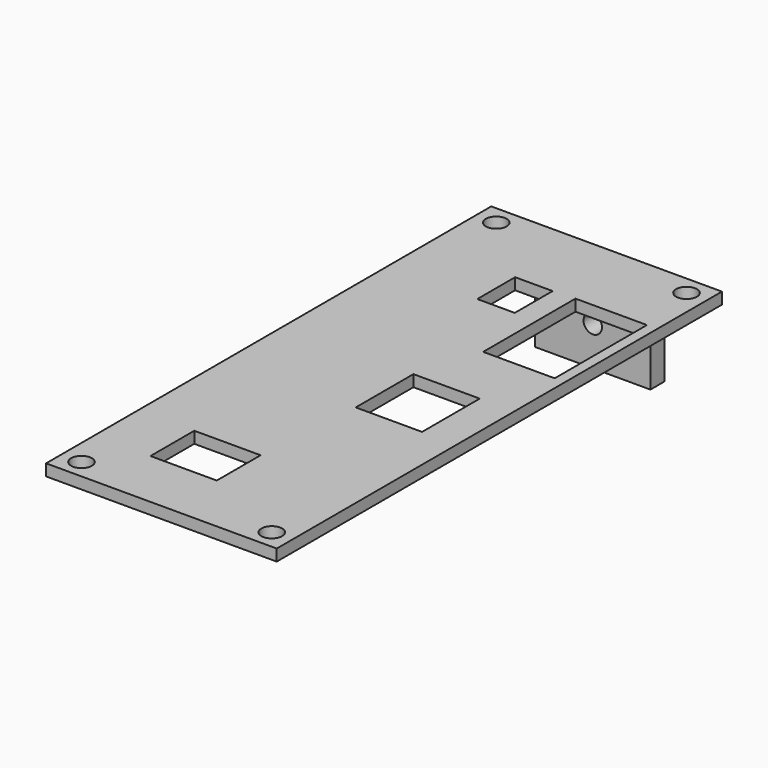
from build123d import *

# Parameters (mm, degrees)
SKETCH_W        = 40
SKETCH_H        = 96.5
PAD_DEPTH       = 2
SKETCH001_R     = 1.8
SKETCH001_W     = 11.5
SKETCH001_H     = 12.5
SKETCH001_W_2   = 6.5
SKETCH001_H_2   = 8.2
SKETCH001_H_3   = 9.5
SKETCH001_W_3   = 12.4
SKETCH001_H_4   = 20
POCKET_DEPTH    = 5
SKETCH002_W     = 20
SKETCH002_H     = 3
PAD001_DEPTH    = 15
SKETCH003_R     = 1.6
POCKET001_DEPTH = 5


with BuildPart() as part:
    # Sketch → Pad (new body)
    with BuildSketch(Plane.XY):
        Rectangle(SKETCH_W, SKETCH_H)
    extrude(amount=PAD_DEPTH)

    # Sketch001 (on Face6 of Pad) → Pocket (cut)
    with BuildSketch(Plane.XY.offset(2)):
        with Locations((-16.5, 44.95)):
            Circle(SKETCH001_R)
        with Locations((16.5, 44.95)):
            Circle(SKETCH001_R)
        with Locations((-16.5, -44.95)):
            Circle(SKETCH001_R)
        with Locations((16.5, -44.95)):
            Circle(SKETCH001_R)
        with Locations((8.25, -3)):
            Rectangle(SKETCH001_W, SKETCH001_H)
        with Locations((-1.25, 29.95)):
            Rectangle(SKETCH001_W_2, SKETCH001_H_2)
        with Locations((-4.55, -33)):
            Rectangle(SKETCH001_W, SKETCH001_H_3)
        with Locations((12, 24.25)):
            Rectangle(SKETCH001_W_3, SKETCH001_H_4)
    extrude(amount=-POCKET_DEPTH, mode=Mode.SUBTRACT)

    # Sketch002 (on Face4 of Pocket) → Pad001 (join)
    with BuildSketch(Plane(origin=(0, 0, 0), x_dir=(1, 0, 0), z_dir=(0, 0, -1))):
        with Locations((0, -46.75)):
            Rectangle(SKETCH002_W, SKETCH002_H)
    extrude(amount=PAD001_DEPTH)

    # Sketch003 (on Face5 of Pad001) → Pocket001 (cut)
    with BuildSketch(Plane(origin=(0, 48.25, 0), x_dir=(-1, 0, 0), z_dir=(0, 1, 0))):
        with Locations((0, -8.215687)):
            Circle(SKETCH003_R)
    extrude(amount=-POCKET001_DEPTH, mode=Mode.SUBTRACT)


solid = part.part
